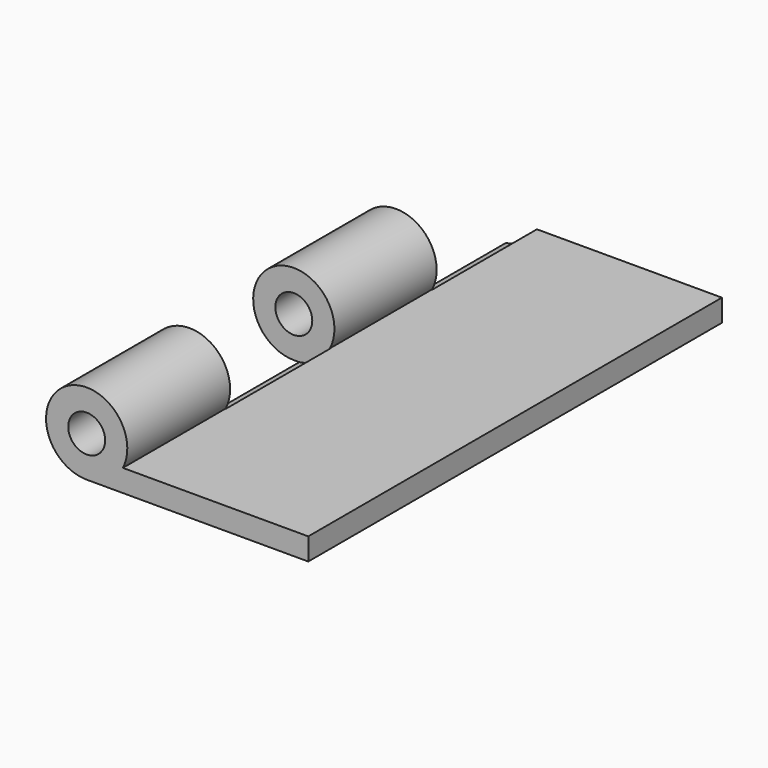
from build123d import *

# Parameters (mm, degrees)
SKETCH_W            = 30
SKETCH_H            = 70
PAD_DEPTH           = 3
SKETCH001_R         = 5.5
SKETCH001_R_2       = 2.5
PAD001_DEPTH        = 17.4
LINEARPATTERN_COUNT = 2
LINEARPATTERN_PITCH = 34.95
SKETCH006_R         = 5.55
POCKET_DEPTH        = 17.65
SKETCH007_R         = 5.55
POCKET003_DEPTH     = 17.65


with BuildPart() as part:
    # Sketch → Pad (new body)
    with BuildSketch(Plane.XY):
        Rectangle(SKETCH_W, SKETCH_H)
    extrude(amount=PAD_DEPTH)

    # Sketch001 (on Face1 of Pad) → Pad001 (join)
    with BuildSketch(Plane.XZ.offset(35)):
        with Locations((-15, 5.5)):
            Circle(SKETCH001_R)
        with Locations((-15, 5.5)):
            Circle(SKETCH001_R_2, mode=Mode.SUBTRACT)
    pad001 = extrude(amount=-PAD001_DEPTH)

    # LinearPattern: Pad001 ×2
    with Locations(*[(0, i * LINEARPATTERN_PITCH, 0) for i in range(1, LINEARPATTERN_COUNT)]):
        add(pad001)

    # Sketch006 (on Face12 of MultiTransform) → Pocket (cut)
    with BuildSketch(Plane(origin=(0, -17.6, 0), x_dir=(-1, 0, 0), z_dir=(0, 1, 0))):
        with Locations((15, 5.5)):
            Circle(SKETCH006_R)
    extrude(amount=POCKET_DEPTH, mode=Mode.SUBTRACT)

    # Sketch007 (on Face12 of Pocket) → Pocket003 (cut)
    with BuildSketch(Plane(origin=(0, 17.35, 0), x_dir=(-1, 0, 0), z_dir=(0, 1, 0))):
        with Locations((15, 5.5)):
            Circle(SKETCH007_R)
    extrude(amount=POCKET003_DEPTH, mode=Mode.SUBTRACT)


solid = part.part
